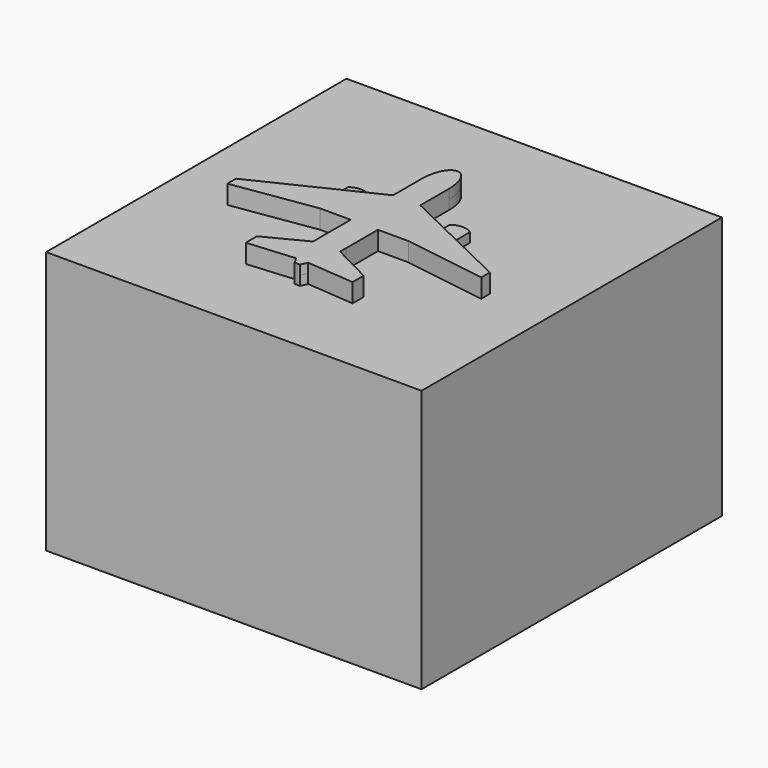
from build123d import *

# Parameters (mm, degrees)
F0_W     = 200
F0_H     = 200
F1_DEPTH = 140
F2_DEPTH = 140
F3_DEPTH = 145
F4_DEPTH = 150
F5_DEPTH = 130


with BuildPart() as f1:
    # F0 (on Top) → F1 (new body)
    with BuildSketch(Plane.XY):
        Rectangle(F0_W, F0_H)
        with BuildLine():
            add(Edge.make_bspline(
                [(7.2454415782, 34.2370129494), (7.2454415782, 48.7951978413), (0, 48.7951978413), (-7.2454415782, 48.7951978413), (-7.2454415782, 34.2370129494)],
                knots=[4.7123889804, 4.7123889804, 4.7123889804, 6.2831853072, 6.2831853072, 7.853981634, 7.853981634, 7.853981634], degree=2, weights=[1, 0.7071067812, 1, 0.7071067812, 1]))
            Line((7.2454415782, 34.2370129494), (7.2454415782, 15.1109112501))
            Line((7.2454415782, 15.1109112501), (21.7954180783, 8.0856784731))
            Line((21.7954180783, 8.0856784731), (21.7534018032, 16.610871316))
            ThreePointArc((21.7534018032, 16.610871316), (27.0897500943, 18.4530874606), (32.4439415934, 16.6633928502))
            Line((32.4439415934, 16.6633928502), (32.4439415934, 2.9442023734))
            Line((32.4439415934, 2.9442023734), (67.6326961509, -14.0461475353))
            Line((67.6326961509, -14.0461475353), (67.6326961509, -19.7732619358))
            Line((67.6326961509, -19.7732619358), (23.5754315722, -13.0982023901))
            Line((23.5754315722, -13.0982023901), (7.2454415782, -13.0982023901))
            Line((7.2454415782, -13.0982023901), (7.2454415782, -34.2370129494))
            add(Edge.make_bspline(
                [(7.2454415782, -34.2370129494), (7.2454415782, -35.6548618262), (7.2142066873, -36.9668416965), (7.1527191063, -38.1911703848)],
                knots=[0, 0, 0, 0, 2.9587160624, 2.9587160624, 2.9587160624, 2.9587160624], degree=3))
            Line((7.1527191063, -38.1911703848), (28.4360707366, -49.1262911818))
            Line((28.4360707366, -49.1262911818), (28.4360707366, -56.4963517135))
            Line((28.4360707366, -56.4963517135), (3.1353018663, -54.3887936468))
            add(Edge.make_bspline(
                [(3.1353018663, -54.3887936468), (2.61930295, -55.4977071467), (2.0588825896, -56.641790632), (1.4564413795, -57.8655702387)],
                knots=[20.3419378234, 20.3419378234, 20.3419378234, 20.3419378234, 24.3273764075, 24.3273764075, 24.3273764075, 24.3273764075], degree=3))
            Line((1.4564413795, -57.8655702387), (0, -57.8274615109))
            Line((0, -57.8274615109), (-1.4564413795, -57.8655702387))
            add(Edge.make_bspline(
                [(-3.1353018663, -54.3887936468), (-2.61930295, -55.4977071467), (-2.0588825896, -56.641790632), (-1.4564413795, -57.8655702387)],
                knots=[20.3419378234, 20.3419378234, 20.3419378234, 20.3419378234, 24.3273764075, 24.3273764075, 24.3273764075, 24.3273764075], degree=3))
            Line((-3.1353018663, -54.3887936468), (-28.4360707366, -56.4963517135))
            Line((-28.4360707366, -56.4963517135), (-28.4360707366, -49.1262911818))
            Line((-28.4360707366, -49.1262911818), (-7.1527191063, -38.1911703848))
            add(Edge.make_bspline(
                [(-7.2454415782, -34.2370129494), (-7.2454415782, -35.6548618262), (-7.2142066873, -36.9668416965), (-7.1527191063, -38.1911703848)],
                knots=[0, 0, 0, 0, 2.9587160624, 2.9587160624, 2.9587160624, 2.9587160624], degree=3))
            Line((-7.2454415782, -34.2370129494), (-7.2454415782, -13.0982023901))
            Line((-7.2454415782, -13.0982023901), (-23.5754315722, -13.0982023901))
            Line((-23.5754315722, -13.0982023901), (-67.6326961509, -19.7732619358))
            Line((-67.6326961509, -19.7732619358), (-67.6326961509, -14.0461475353))
            Line((-67.6326961509, -14.0461475353), (-32.4439415934, 2.9442023734))
            Line((-32.4439415934, 2.9442023734), (-32.4439415934, 16.6633928502))
            ThreePointArc((-32.4439415934, 16.6633928502), (-27.0897500943, 18.4530874606), (-21.7534018032, 16.610871316))
            Line((-21.7534018032, 16.610871316), (-21.7954180783, 8.0856784731))
            Line((-21.7954180783, 8.0856784731), (-7.2454415782, 15.1109112501))
            Line((-7.2454415782, 15.1109112501), (-7.2454415782, 34.2370129494))
        make_face(mode=Mode.SUBTRACT)
        Polygon((-7.2454415782, -13.0982023901), (-7.2454415782, 15.1109112501), (-21.7954180783, 8.0856784731), (-32.4439415934, 2.9442023734), (-67.6326961509, -14.0461475353), (-67.6326961509, -19.7732619358), (-23.5754315722, -13.0982023901), align=None)
        with BuildLine():
            Line((-32.4439415934, 2.9442023734), (-21.7954180783, 8.0856784731))
            Line((-21.7954180783, 8.0856784731), (-21.7534018032, 16.610871316))
            ThreePointArc((-21.7534018032, 16.610871316), (-27.0897500943, 18.4530874606), (-32.4439415934, 16.6633928502))
            Line((-32.4439415934, 16.6633928502), (-32.4439415934, 2.9442023734))
        make_face()
        with BuildLine():
            add(Edge.make_bspline(
                [(-7.1527191063, -38.1911703848), (-6.791463672, -45.384417945), (-5.3859258319, -49.5520639177), (-3.1353018663, -54.3887936468)],
                knots=[2.9587160624, 2.9587160624, 2.9587160624, 2.9587160624, 20.3419378234, 20.3419378234, 20.3419378234, 20.3419378234], degree=3))
            Line((-7.1527191063, -38.1911703848), (-28.4360707366, -49.1262911818))
            Line((-28.4360707366, -49.1262911818), (-28.4360707366, -56.4963517135))
            Line((-28.4360707366, -56.4963517135), (-3.1353018663, -54.3887936468))
        make_face()
        with BuildLine():
            Line((28.4360707366, -49.1262911818), (7.1527191063, -38.1911703848))
            add(Edge.make_bspline(
                [(7.1527191063, -38.1911703848), (6.791463672, -45.384417945), (5.3859258319, -49.5520639177), (3.1353018663, -54.3887936468)],
                knots=[2.9587160624, 2.9587160624, 2.9587160624, 2.9587160624, 20.3419378234, 20.3419378234, 20.3419378234, 20.3419378234], degree=3))
            Line((3.1353018663, -54.3887936468), (28.4360707366, -56.4963517135))
            Line((28.4360707366, -56.4963517135), (28.4360707366, -49.1262911818))
        make_face()
        with BuildLine():
            Line((21.7534018032, 16.610871316), (21.7954180783, 8.0856784731))
            Line((21.7954180783, 8.0856784731), (32.4439415934, 2.9442023734))
            Line((32.4439415934, 2.9442023734), (32.4439415934, 16.6633928502))
            ThreePointArc((32.4439415934, 16.6633928502), (27.0897500943, 18.4530874606), (21.7534018032, 16.610871316))
        make_face()
    extrude(amount=F1_DEPTH)

    # F0 (on Top) → F2 (join)
    with BuildSketch(Plane.XY):
        with BuildLine():
            Line((7.2454415782, 15.1109112501), (7.2454415782, 34.2370129494))
            add(Edge.make_bspline(
                [(7.2454415782, 34.2370129494), (7.2454415782, 48.7951978413), (0, 48.7951978413), (-7.2454415782, 48.7951978413), (-7.2454415782, 34.2370129494)],
                knots=[4.7123889804, 4.7123889804, 4.7123889804, 6.2831853072, 6.2831853072, 7.853981634, 7.853981634, 7.853981634], degree=2, weights=[1, 0.7071067812, 1, 0.7071067812, 1]))
            Line((-7.2454415782, 34.2370129494), (-7.2454415782, 15.1109112501))
            Line((-7.2454415782, 15.1109112501), (-7.2454415782, -13.0982023901))
            Line((-7.2454415782, -13.0982023901), (-7.2454415782, -34.2370129494))
            add(Edge.make_bspline(
                [(-7.2454415782, -34.2370129494), (-7.2454415782, -35.6548618262), (-7.2142066873, -36.9668416965), (-7.1527191063, -38.1911703848)],
                knots=[0, 0, 0, 0, 2.9587160624, 2.9587160624, 2.9587160624, 2.9587160624], degree=3))
            add(Edge.make_bspline(
                [(-7.1527191063, -38.1911703848), (-6.791463672, -45.384417945), (-5.3859258319, -49.5520639177), (-3.1353018663, -54.3887936468)],
                knots=[2.9587160624, 2.9587160624, 2.9587160624, 2.9587160624, 20.3419378234, 20.3419378234, 20.3419378234, 20.3419378234], degree=3))
            add(Edge.make_bspline(
                [(-3.1353018663, -54.3887936468), (-2.61930295, -55.4977071467), (-2.0588825896, -56.641790632), (-1.4564413795, -57.8655702387)],
                knots=[20.3419378234, 20.3419378234, 20.3419378234, 20.3419378234, 24.3273764075, 24.3273764075, 24.3273764075, 24.3273764075], degree=3))
            Line((-1.4564413795, -57.8655702387), (0, -57.8274615109))
            Line((0, -57.8274615109), (1.4564413795, -57.8655702387))
            add(Edge.make_bspline(
                [(3.1353018663, -54.3887936468), (2.61930295, -55.4977071467), (2.0588825896, -56.641790632), (1.4564413795, -57.8655702387)],
                knots=[20.3419378234, 20.3419378234, 20.3419378234, 20.3419378234, 24.3273764075, 24.3273764075, 24.3273764075, 24.3273764075], degree=3))
            add(Edge.make_bspline(
                [(7.1527191063, -38.1911703848), (6.791463672, -45.384417945), (5.3859258319, -49.5520639177), (3.1353018663, -54.3887936468)],
                knots=[2.9587160624, 2.9587160624, 2.9587160624, 2.9587160624, 20.3419378234, 20.3419378234, 20.3419378234, 20.3419378234], degree=3))
            add(Edge.make_bspline(
                [(7.2454415782, -34.2370129494), (7.2454415782, -35.6548618262), (7.2142066873, -36.9668416965), (7.1527191063, -38.1911703848)],
                knots=[0, 0, 0, 0, 2.9587160624, 2.9587160624, 2.9587160624, 2.9587160624], degree=3))
            Line((7.2454415782, -34.2370129494), (7.2454415782, -13.0982023901))
            Line((7.2454415782, -13.0982023901), (7.2454415782, 15.1109112501))
        make_face()
        Polygon((21.7954180783, 8.0856784731), (7.2454415782, 15.1109112501), (7.2454415782, -13.0982023901), (23.5754315722, -13.0982023901), (67.6326961509, -19.7732619358), (67.6326961509, -14.0461475353), (32.4439415934, 2.9442023734), align=None)
    extrude(amount=F2_DEPTH)

    # F0 (on Top) → F3 (join)
    with BuildSketch(Plane.XY):
        Polygon((-7.2454415782, -13.0982023901), (-7.2454415782, 15.1109112501), (-21.7954180783, 8.0856784731), (-32.4439415934, 2.9442023734), (-67.6326961509, -14.0461475353), (-67.6326961509, -19.7732619358), (-23.5754315722, -13.0982023901), align=None)
        with BuildLine():
            Line((-32.4439415934, 2.9442023734), (-21.7954180783, 8.0856784731))
            Line((-21.7954180783, 8.0856784731), (-21.7534018032, 16.610871316))
            ThreePointArc((-21.7534018032, 16.610871316), (-27.0897500943, 18.4530874606), (-32.4439415934, 16.6633928502))
            Line((-32.4439415934, 16.6633928502), (-32.4439415934, 2.9442023734))
        make_face()
        with BuildLine():
            Line((7.2454415782, 15.1109112501), (7.2454415782, 34.2370129494))
            add(Edge.make_bspline(
                [(7.2454415782, 34.2370129494), (7.2454415782, 48.7951978413), (0, 48.7951978413), (-7.2454415782, 48.7951978413), (-7.2454415782, 34.2370129494)],
                knots=[4.7123889804, 4.7123889804, 4.7123889804, 6.2831853072, 6.2831853072, 7.853981634, 7.853981634, 7.853981634], degree=2, weights=[1, 0.7071067812, 1, 0.7071067812, 1]))
            Line((-7.2454415782, 34.2370129494), (-7.2454415782, 15.1109112501))
            Line((-7.2454415782, 15.1109112501), (-7.2454415782, -13.0982023901))
            Line((-7.2454415782, -13.0982023901), (-7.2454415782, -34.2370129494))
            add(Edge.make_bspline(
                [(-7.2454415782, -34.2370129494), (-7.2454415782, -35.6548618262), (-7.2142066873, -36.9668416965), (-7.1527191063, -38.1911703848)],
                knots=[0, 0, 0, 0, 2.9587160624, 2.9587160624, 2.9587160624, 2.9587160624], degree=3))
            add(Edge.make_bspline(
                [(-7.1527191063, -38.1911703848), (-6.791463672, -45.384417945), (-5.3859258319, -49.5520639177), (-3.1353018663, -54.3887936468)],
                knots=[2.9587160624, 2.9587160624, 2.9587160624, 2.9587160624, 20.3419378234, 20.3419378234, 20.3419378234, 20.3419378234], degree=3))
            add(Edge.make_bspline(
                [(-3.1353018663, -54.3887936468), (-2.61930295, -55.4977071467), (-2.0588825896, -56.641790632), (-1.4564413795, -57.8655702387)],
                knots=[20.3419378234, 20.3419378234, 20.3419378234, 20.3419378234, 24.3273764075, 24.3273764075, 24.3273764075, 24.3273764075], degree=3))
            Line((-1.4564413795, -57.8655702387), (0, -57.8274615109))
            Line((0, -57.8274615109), (1.4564413795, -57.8655702387))
            add(Edge.make_bspline(
                [(3.1353018663, -54.3887936468), (2.61930295, -55.4977071467), (2.0588825896, -56.641790632), (1.4564413795, -57.8655702387)],
                knots=[20.3419378234, 20.3419378234, 20.3419378234, 20.3419378234, 24.3273764075, 24.3273764075, 24.3273764075, 24.3273764075], degree=3))
            add(Edge.make_bspline(
                [(7.1527191063, -38.1911703848), (6.791463672, -45.384417945), (5.3859258319, -49.5520639177), (3.1353018663, -54.3887936468)],
                knots=[2.9587160624, 2.9587160624, 2.9587160624, 2.9587160624, 20.3419378234, 20.3419378234, 20.3419378234, 20.3419378234], degree=3))
            add(Edge.make_bspline(
                [(7.2454415782, -34.2370129494), (7.2454415782, -35.6548618262), (7.2142066873, -36.9668416965), (7.1527191063, -38.1911703848)],
                knots=[0, 0, 0, 0, 2.9587160624, 2.9587160624, 2.9587160624, 2.9587160624], degree=3))
            Line((7.2454415782, -34.2370129494), (7.2454415782, -13.0982023901))
            Line((7.2454415782, -13.0982023901), (7.2454415782, 15.1109112501))
        make_face()
        Polygon((21.7954180783, 8.0856784731), (7.2454415782, 15.1109112501), (7.2454415782, -13.0982023901), (23.5754315722, -13.0982023901), (67.6326961509, -19.7732619358), (67.6326961509, -14.0461475353), (32.4439415934, 2.9442023734), align=None)
        with BuildLine():
            Line((21.7534018032, 16.610871316), (21.7954180783, 8.0856784731))
            Line((21.7954180783, 8.0856784731), (32.4439415934, 2.9442023734))
            Line((32.4439415934, 2.9442023734), (32.4439415934, 16.6633928502))
            ThreePointArc((32.4439415934, 16.6633928502), (27.0897500943, 18.4530874606), (21.7534018032, 16.610871316))
        make_face()
        with BuildLine():
            Line((28.4360707366, -49.1262911818), (7.1527191063, -38.1911703848))
            add(Edge.make_bspline(
                [(7.1527191063, -38.1911703848), (6.791463672, -45.384417945), (5.3859258319, -49.5520639177), (3.1353018663, -54.3887936468)],
                knots=[2.9587160624, 2.9587160624, 2.9587160624, 2.9587160624, 20.3419378234, 20.3419378234, 20.3419378234, 20.3419378234], degree=3))
            Line((3.1353018663, -54.3887936468), (28.4360707366, -56.4963517135))
            Line((28.4360707366, -56.4963517135), (28.4360707366, -49.1262911818))
        make_face()
        with BuildLine():
            add(Edge.make_bspline(
                [(-7.1527191063, -38.1911703848), (-6.791463672, -45.384417945), (-5.3859258319, -49.5520639177), (-3.1353018663, -54.3887936468)],
                knots=[2.9587160624, 2.9587160624, 2.9587160624, 2.9587160624, 20.3419378234, 20.3419378234, 20.3419378234, 20.3419378234], degree=3))
            Line((-7.1527191063, -38.1911703848), (-28.4360707366, -49.1262911818))
            Line((-28.4360707366, -49.1262911818), (-28.4360707366, -56.4963517135))
            Line((-28.4360707366, -56.4963517135), (-3.1353018663, -54.3887936468))
        make_face()
    extrude(amount=F3_DEPTH)

    # F0 (on Top) → F4 (join)
    with BuildSketch(Plane.XY):
        with BuildLine():
            Line((7.2454415782, 15.1109112501), (7.2454415782, 34.2370129494))
            add(Edge.make_bspline(
                [(7.2454415782, 34.2370129494), (7.2454415782, 48.7951978413), (0, 48.7951978413), (-7.2454415782, 48.7951978413), (-7.2454415782, 34.2370129494)],
                knots=[4.7123889804, 4.7123889804, 4.7123889804, 6.2831853072, 6.2831853072, 7.853981634, 7.853981634, 7.853981634], degree=2, weights=[1, 0.7071067812, 1, 0.7071067812, 1]))
            Line((-7.2454415782, 34.2370129494), (-7.2454415782, 15.1109112501))
            Line((-7.2454415782, 15.1109112501), (-7.2454415782, -13.0982023901))
            Line((-7.2454415782, -13.0982023901), (-7.2454415782, -34.2370129494))
            add(Edge.make_bspline(
                [(-7.2454415782, -34.2370129494), (-7.2454415782, -35.6548618262), (-7.2142066873, -36.9668416965), (-7.1527191063, -38.1911703848)],
                knots=[0, 0, 0, 0, 2.9587160624, 2.9587160624, 2.9587160624, 2.9587160624], degree=3))
            add(Edge.make_bspline(
                [(-7.1527191063, -38.1911703848), (-6.791463672, -45.384417945), (-5.3859258319, -49.5520639177), (-3.1353018663, -54.3887936468)],
                knots=[2.9587160624, 2.9587160624, 2.9587160624, 2.9587160624, 20.3419378234, 20.3419378234, 20.3419378234, 20.3419378234], degree=3))
            add(Edge.make_bspline(
                [(-3.1353018663, -54.3887936468), (-2.61930295, -55.4977071467), (-2.0588825896, -56.641790632), (-1.4564413795, -57.8655702387)],
                knots=[20.3419378234, 20.3419378234, 20.3419378234, 20.3419378234, 24.3273764075, 24.3273764075, 24.3273764075, 24.3273764075], degree=3))
            Line((-1.4564413795, -57.8655702387), (0, -57.8274615109))
            Line((0, -57.8274615109), (1.4564413795, -57.8655702387))
            add(Edge.make_bspline(
                [(3.1353018663, -54.3887936468), (2.61930295, -55.4977071467), (2.0588825896, -56.641790632), (1.4564413795, -57.8655702387)],
                knots=[20.3419378234, 20.3419378234, 20.3419378234, 20.3419378234, 24.3273764075, 24.3273764075, 24.3273764075, 24.3273764075], degree=3))
            add(Edge.make_bspline(
                [(7.1527191063, -38.1911703848), (6.791463672, -45.384417945), (5.3859258319, -49.5520639177), (3.1353018663, -54.3887936468)],
                knots=[2.9587160624, 2.9587160624, 2.9587160624, 2.9587160624, 20.3419378234, 20.3419378234, 20.3419378234, 20.3419378234], degree=3))
            add(Edge.make_bspline(
                [(7.2454415782, -34.2370129494), (7.2454415782, -35.6548618262), (7.2142066873, -36.9668416965), (7.1527191063, -38.1911703848)],
                knots=[0, 0, 0, 0, 2.9587160624, 2.9587160624, 2.9587160624, 2.9587160624], degree=3))
            Line((7.2454415782, -34.2370129494), (7.2454415782, -13.0982023901))
            Line((7.2454415782, -13.0982023901), (7.2454415782, 15.1109112501))
        make_face()
        Polygon((21.7954180783, 8.0856784731), (7.2454415782, 15.1109112501), (7.2454415782, -13.0982023901), (23.5754315722, -13.0982023901), (67.6326961509, -19.7732619358), (67.6326961509, -14.0461475353), (32.4439415934, 2.9442023734), align=None)
        Polygon((-7.2454415782, -13.0982023901), (-7.2454415782, 15.1109112501), (-21.7954180783, 8.0856784731), (-32.4439415934, 2.9442023734), (-67.6326961509, -14.0461475353), (-67.6326961509, -19.7732619358), (-23.5754315722, -13.0982023901), align=None)
        with BuildLine():
            Line((28.4360707366, -49.1262911818), (7.1527191063, -38.1911703848))
            add(Edge.make_bspline(
                [(7.1527191063, -38.1911703848), (6.791463672, -45.384417945), (5.3859258319, -49.5520639177), (3.1353018663, -54.3887936468)],
                knots=[2.9587160624, 2.9587160624, 2.9587160624, 2.9587160624, 20.3419378234, 20.3419378234, 20.3419378234, 20.3419378234], degree=3))
            Line((3.1353018663, -54.3887936468), (28.4360707366, -56.4963517135))
            Line((28.4360707366, -56.4963517135), (28.4360707366, -49.1262911818))
        make_face()
        with BuildLine():
            add(Edge.make_bspline(
                [(-7.1527191063, -38.1911703848), (-6.791463672, -45.384417945), (-5.3859258319, -49.5520639177), (-3.1353018663, -54.3887936468)],
                knots=[2.9587160624, 2.9587160624, 2.9587160624, 2.9587160624, 20.3419378234, 20.3419378234, 20.3419378234, 20.3419378234], degree=3))
            Line((-7.1527191063, -38.1911703848), (-28.4360707366, -49.1262911818))
            Line((-28.4360707366, -49.1262911818), (-28.4360707366, -56.4963517135))
            Line((-28.4360707366, -56.4963517135), (-3.1353018663, -54.3887936468))
        make_face()
    extrude(amount=F4_DEPTH)

    # F0 (on Top) → F5 (join)
    with BuildSketch(Plane.XY):
        with BuildLine():
            Line((7.2454415782, 15.1109112501), (7.2454415782, 34.2370129494))
            add(Edge.make_bspline(
                [(7.2454415782, 34.2370129494), (7.2454415782, 48.7951978413), (0, 48.7951978413), (-7.2454415782, 48.7951978413), (-7.2454415782, 34.2370129494)],
                knots=[4.7123889804, 4.7123889804, 4.7123889804, 6.2831853072, 6.2831853072, 7.853981634, 7.853981634, 7.853981634], degree=2, weights=[1, 0.7071067812, 1, 0.7071067812, 1]))
            Line((-7.2454415782, 34.2370129494), (-7.2454415782, 15.1109112501))
            Line((-7.2454415782, 15.1109112501), (-7.2454415782, -13.0982023901))
            Line((-7.2454415782, -13.0982023901), (-7.2454415782, -34.2370129494))
            add(Edge.make_bspline(
                [(-7.2454415782, -34.2370129494), (-7.2454415782, -35.6548618262), (-7.2142066873, -36.9668416965), (-7.1527191063, -38.1911703848)],
                knots=[0, 0, 0, 0, 2.9587160624, 2.9587160624, 2.9587160624, 2.9587160624], degree=3))
            add(Edge.make_bspline(
                [(-7.1527191063, -38.1911703848), (-6.791463672, -45.384417945), (-5.3859258319, -49.5520639177), (-3.1353018663, -54.3887936468)],
                knots=[2.9587160624, 2.9587160624, 2.9587160624, 2.9587160624, 20.3419378234, 20.3419378234, 20.3419378234, 20.3419378234], degree=3))
            add(Edge.make_bspline(
                [(-3.1353018663, -54.3887936468), (-2.61930295, -55.4977071467), (-2.0588825896, -56.641790632), (-1.4564413795, -57.8655702387)],
                knots=[20.3419378234, 20.3419378234, 20.3419378234, 20.3419378234, 24.3273764075, 24.3273764075, 24.3273764075, 24.3273764075], degree=3))
            Line((-1.4564413795, -57.8655702387), (0, -57.8274615109))
            Line((0, -57.8274615109), (1.4564413795, -57.8655702387))
            add(Edge.make_bspline(
                [(3.1353018663, -54.3887936468), (2.61930295, -55.4977071467), (2.0588825896, -56.641790632), (1.4564413795, -57.8655702387)],
                knots=[20.3419378234, 20.3419378234, 20.3419378234, 20.3419378234, 24.3273764075, 24.3273764075, 24.3273764075, 24.3273764075], degree=3))
            add(Edge.make_bspline(
                [(7.1527191063, -38.1911703848), (6.791463672, -45.384417945), (5.3859258319, -49.5520639177), (3.1353018663, -54.3887936468)],
                knots=[2.9587160624, 2.9587160624, 2.9587160624, 2.9587160624, 20.3419378234, 20.3419378234, 20.3419378234, 20.3419378234], degree=3))
            add(Edge.make_bspline(
                [(7.2454415782, -34.2370129494), (7.2454415782, -35.6548618262), (7.2142066873, -36.9668416965), (7.1527191063, -38.1911703848)],
                knots=[0, 0, 0, 0, 2.9587160624, 2.9587160624, 2.9587160624, 2.9587160624], degree=3))
            Line((7.2454415782, -34.2370129494), (7.2454415782, -13.0982023901))
            Line((7.2454415782, -13.0982023901), (7.2454415782, 15.1109112501))
        make_face()
    extrude(amount=F5_DEPTH)


solid = f1.part
